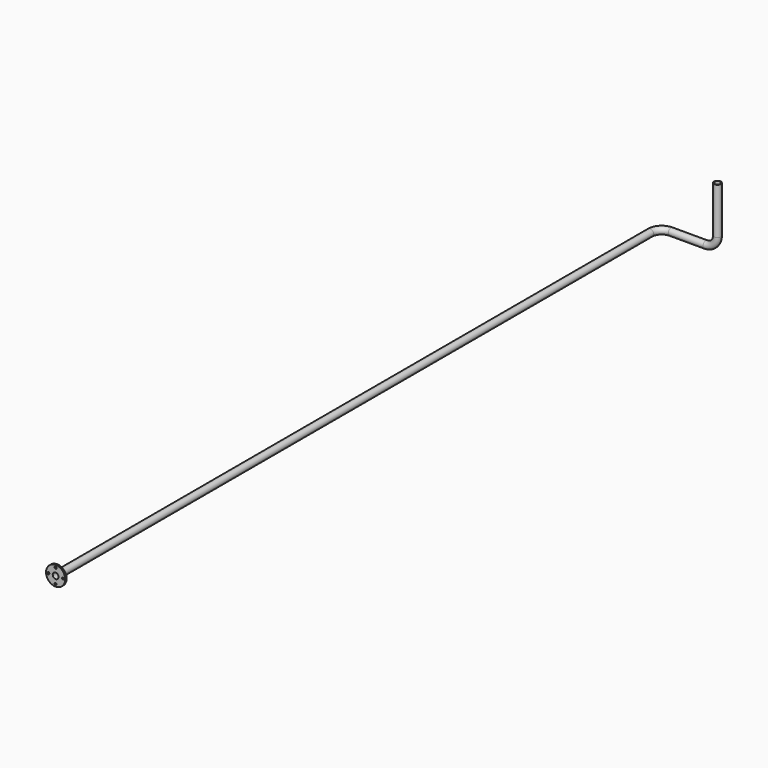
from build123d import *

# Parameters (mm, degrees)
F0_R     = 30
F0_R_2   = 25
F0_R_3   = 82.5
F0_R_4   = 9
F5_DEPTH = 15


with BuildPart() as f4:
    # F4: sweep along a path in F1, F3
    with BuildLine(Plane.XY) as f4_path:
        Line((0, 0), (0, 6400))
        ThreePointArc((0, 6400), (29.2893218813, 6470.7106781187), (100, 6500))
    with BuildLine(Plane.XZ.offset(-6500)) as f4_path_2:
        Line((100, 0), (400, 0))
        ThreePointArc((400, 0), (470.7106781187, 29.2893218813), (500, 100))
        Line((500, 100), (500, 500))
    # F0 (on Front) → F4 (sweep)
    with BuildSketch(Plane.XZ):
        Circle(F0_R)
        Circle(F0_R_2, mode=Mode.SUBTRACT)
    sweep(path=f4_path.line + f4_path_2.line)

    # F0 (on Front) → F5 (join)
    with BuildSketch(Plane.XZ):
        Circle(F0_R_3)
        with Locations((0, -62.5)):
            Circle(F0_R_4, mode=Mode.SUBTRACT)
        with Locations((-62.5, 0)):
            Circle(F0_R_4, mode=Mode.SUBTRACT)
        Circle(F0_R, mode=Mode.SUBTRACT)
        with Locations((62.5, 0)):
            Circle(F0_R_4, mode=Mode.SUBTRACT)
        with Locations((0, 62.5)):
            Circle(F0_R_4, mode=Mode.SUBTRACT)
    extrude(amount=-F5_DEPTH)


solid = f4.part
